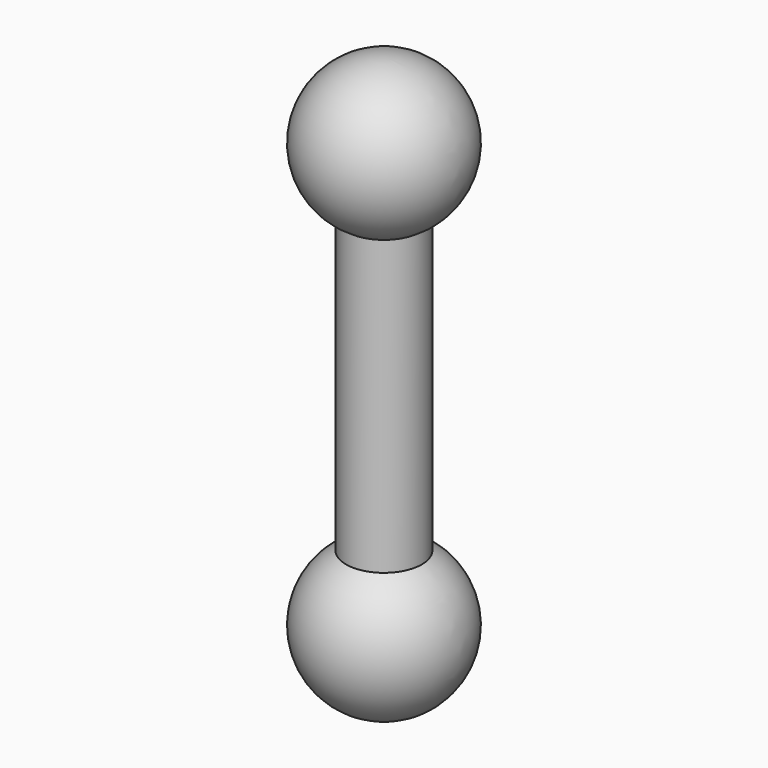
from build123d import *

# Parameters (mm, degrees)
F0_R     = 6.35
F1_DEPTH = 25.4


with BuildPart() as f1:
    # F0 (on Top) → F1 (new body, symmetric)
    with BuildSketch(Plane.XY):
        Circle(F0_R)
    extrude(amount=F1_DEPTH, both=True)

    # F2 (on Front) → F3 (revolve)
    with BuildSketch(Plane.XZ):
        with BuildLine():
            Line((0, 48.26), (0, 22.86))
            ThreePointArc((0, 22.86), (12.7, 35.56), (0, 48.26))
        make_face()
        with BuildLine():
            ThreePointArc((0, -48.26), (12.7, -35.56), (0, -22.86))
            Line((0, -22.86), (0, -48.26))
        make_face()
    revolve(axis=Axis((0, 0, 35.56), (0, 0, 1)))


solid = f1.part
